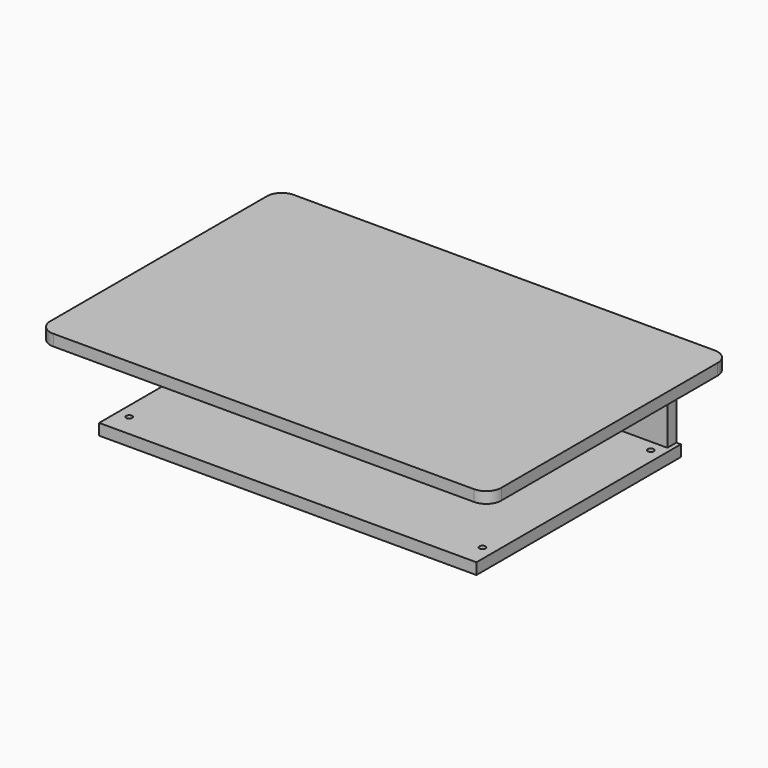
from build123d import *

# Parameters (mm, degrees)
F1_DEPTH  = 19.05
F2_W      = 19.05
F2_H      = 412.75
F3_DEPTH  = 7.62
F4_W      = 622.3
F4_H      = 19.05
F5_DEPTH  = 129.8829
F6_W      = 637.54
F6_H      = 431.8
F7_DEPTH  = 19.05
F8_R      = 5.08
F9_DEPTH  = 16.002
F10_R     = 5.08
F11_DEPTH = 16.002


with BuildPart() as f1:
    # F0 (on Top) → F1 (new body)
    with BuildSketch(Plane.XY):
        with BuildLine():
            Line((355.6, 254), (-355.6, 254))
            ThreePointArc((-355.6, 254), (-373.560512, 246.560512), (-381, 228.6))
            Line((-381, 228.6), (-381, -228.6))
            ThreePointArc((-381, -228.6), (-373.560512, -246.560512), (-355.6, -254))
            Line((-355.6, -254), (355.6, -254))
            ThreePointArc((355.6, -254), (373.560512, -246.560512), (381, -228.6))
            Line((381, -228.6), (381, 228.6))
            ThreePointArc((381, 228.6), (373.560512, 246.560512), (355.6, 254))
        make_face()
    extrude(amount=F1_DEPTH)

    # F2 (on face) → F3 (cut)
    with BuildSketch(Plane(origin=(0, 0, 0), x_dir=(1, 0, 0), z_dir=(0, 0, -1))):
        Polygon((-330.2, -228.6), (330.2, -228.6), (330.2, -209.55), (311.15, -209.55), (-311.15, -209.55), (-330.2, -209.55), align=None)
        with Locations((320.675, -3.175)):
            Rectangle(F2_W, F2_H)
        with Locations((-320.675, -3.175)):
            Rectangle(F2_W, F2_H)
    extrude(amount=-F3_DEPTH, mode=Mode.SUBTRACT)


with BuildPart() as f5:
    # F4 (on face) → F5 (new body)
    with BuildSketch(Plane(origin=(0, 0, 7.62), x_dir=(1, 0, 0), z_dir=(0, 0, -1))):
        with Locations((0, -219.075)):
            Rectangle(F4_W, F4_H)
    extrude(amount=F5_DEPTH)

    # F8 (on face) → F9 (cut)
    with BuildSketch(Plane(origin=(0, 228.6, 0), x_dir=(-1, 0, 0), z_dir=(0, 1, 0))):
        with Locations((-290.83, -14.732)):
            Circle(F8_R)
        with Locations((290.83, -14.732)):
            Circle(F8_R)
    extrude(amount=-F9_DEPTH, mode=Mode.SUBTRACT)


with BuildPart() as f7:
    # F6 (on face) → F7 (new body)
    with BuildSketch(Plane(origin=(0, 0, -122.2629), x_dir=(1, 0, 0), z_dir=(0, 0, -1))):
        with Locations((0, -12.7)):
            Rectangle(F6_W, F6_H)
    extrude(amount=F7_DEPTH)

    # F10 (on face) → F11 (cut)
    with BuildSketch(Plane.XY.offset(-122.2629)):
        with Locations((-298.45, 190.5)):
            Circle(F10_R)
        with Locations((298.45, 190.5)):
            Circle(F10_R)
        with Locations((298.45, -165.1)):
            Circle(F10_R)
        with Locations((-298.45, -165.1)):
            Circle(F10_R)
    extrude(amount=-F11_DEPTH, mode=Mode.SUBTRACT)


solid = Compound([f1.part, f5.part, f7.part])
